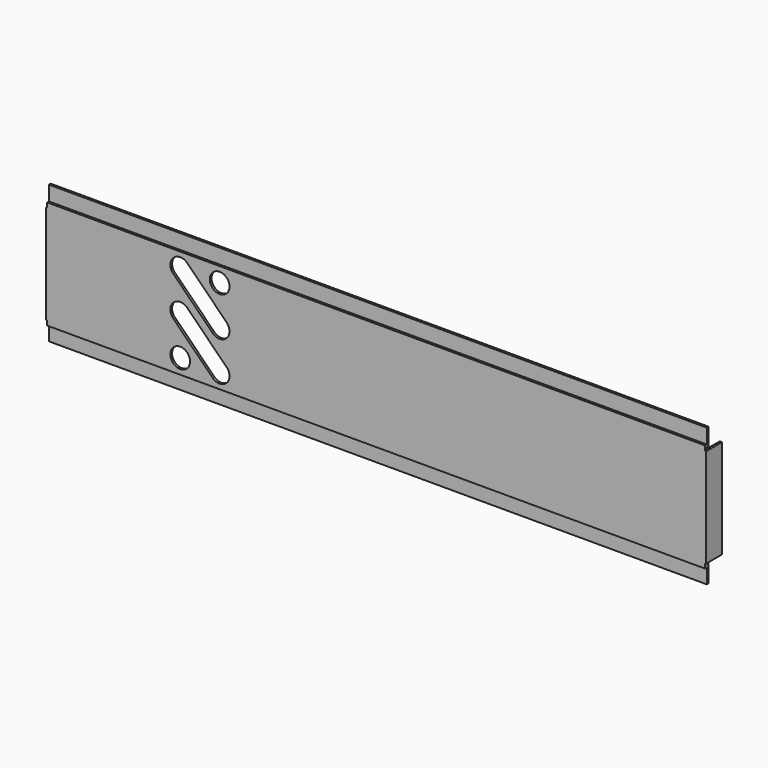
from build123d import *

# Parameters (mm, degrees)
F0_W     = 423.8752
F0_H     = 69.85
F0_R     = 6.35
F1_DEPTH = 1.397
F2_W     = 423.8752
F2_H     = 11.1125
F3_DEPTH = 1.397
F4_W     = 1.397
F4_H     = 63.754
F5_DEPTH = 12.7


with BuildPart() as f1:
    # F0 (on Front) → F1 (new body)
    with BuildSketch(Plane.XZ):
        Rectangle(F0_W, F0_H)
        with BuildLine():
            ThreePointArc((-130.702728, -29.886292), (-130.702728, -20.906036), (-121.722472, -20.906036))
            Line((-121.722472, -20.906036), (-121.718636, -20.909872))
            ThreePointArc((-121.718636, -20.909872), (-121.718636, -29.890128), (-130.698892, -29.890128))
            Line((-130.698892, -29.890128), (-130.702728, -29.886292))
        make_face(mode=Mode.SUBTRACT)
        with BuildLine():
            ThreePointArc((-130.702728, -4.490128), (-130.702728, 4.490128), (-121.722472, 4.490128))
            Line((-121.722472, 4.490128), (-96.322472, -20.909872))
            ThreePointArc((-96.322472, -20.909872), (-96.322472, -29.890128), (-105.302728, -29.890128))
            Line((-105.302728, -29.890128), (-130.702728, -4.490128))
        make_face(mode=Mode.SUBTRACT)
        with BuildLine():
            ThreePointArc((-96.322472, 4.490128), (-96.322472, -4.490128), (-105.302728, -4.490128))
            Line((-105.302728, -4.490128), (-130.702728, 20.909872))
            ThreePointArc((-130.702728, 20.909872), (-130.702728, 29.890128), (-121.722472, 29.890128))
            Line((-121.722472, 29.890128), (-96.322472, 4.490128))
        make_face(mode=Mode.SUBTRACT)
        with Locations((-100.8126, 25.4)):
            Circle(F0_R, mode=Mode.SUBTRACT)
    extrude(amount=F1_DEPTH)

    # F2 (on face) → F3 (join)
    with BuildSketch(Plane(origin=(0, 0, 0), x_dir=(-1, 0, 0), z_dir=(0, 1, 0))):
        with Locations((0, 38.89375)):
            Rectangle(F2_W, F2_H)
        with Locations((0, -38.89375)):
            Rectangle(F2_W, F2_H)
    extrude(amount=F3_DEPTH)

    # F4 (on face) → F5 (join)
    with BuildSketch(Plane.XZ.offset(1.397)):
        with Locations((-211.9376, 0)):
            Rectangle(F4_W, F4_H)
        with Locations((211.9376, 0)):
            Rectangle(F4_W, F4_H)
    extrude(amount=-F5_DEPTH)


solid = f1.part
